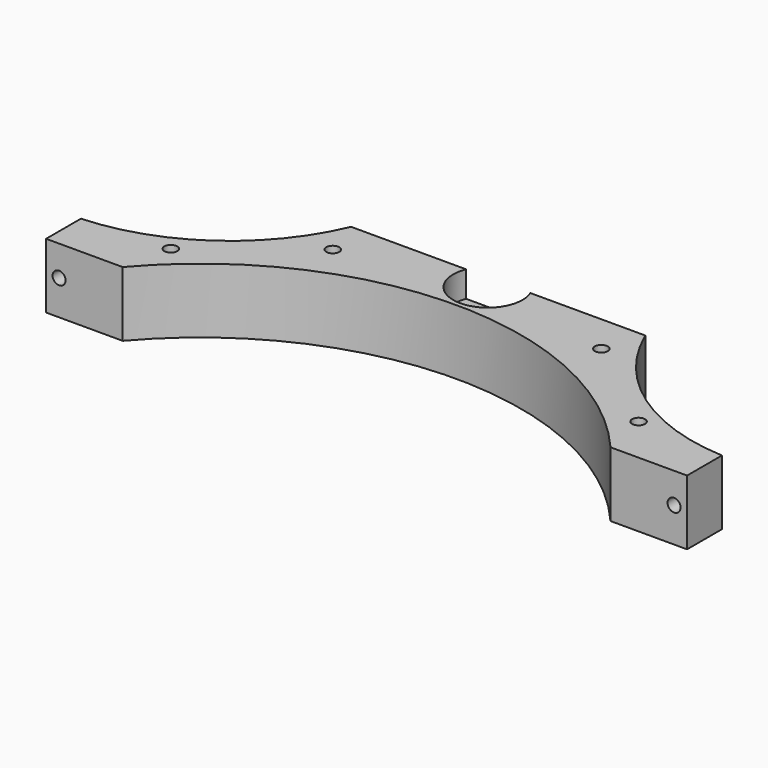
from build123d import *

# Parameters (mm, degrees)
CYLINDER2057_R               = 1.5
CYLINDER2057_DEPTH           = 50
CYLINDER2057_PLACEMENT_ANGLE = 45
CYLINDER2056_R               = 1.5
CYLINDER2056_DEPTH           = 50
CYLINDER2056_PLACEMENT_ANGLE = 45
CYLINDER2053_R               = 1.5
CYLINDER2053_DEPTH           = 50
CYLINDER2053_PLACEMENT_ANGLE = 45
CYLINDER2055_R               = 1.5
CYLINDER2055_DEPTH           = 50
CYLINDER2055_PLACEMENT_ANGLE = 45
CYLINDER2054_R               = 3
CYLINDER2054_DEPTH           = 3
CYLINDER2054_PLACEMENT_ANGLE = 45
CYLINDER2058_R               = 3
CYLINDER2058_DEPTH           = 3
CYLINDER2058_PLACEMENT_ANGLE = 45
CYLINDER2068_R               = 3
CYLINDER2068_DEPTH           = 3
CYLINDER2068_PLACEMENT_ANGLE = 45
CYLINDER2059_R               = 3
CYLINDER2059_DEPTH           = 3
CYLINDER2059_PLACEMENT_ANGLE = 45
CYLINDER2048_R               = 8
CYLINDER2048_DEPTH           = 6
CYLINDER2045_R               = 3
CYLINDER2045_DEPTH           = 50
CYLINDER2060_R               = 3
CYLINDER2060_DEPTH           = 50
CYLINDER2046_R               = 1.5
CYLINDER2046_DEPTH           = 50
CYLINDER2044_R               = 1.5
CYLINDER2044_DEPTH           = 50
CYLINDER2042_R               = 74
CYLINDER2042_DEPTH           = 15
CYLINDER2047_R               = 46
CYLINDER2047_DEPTH           = 36
CYLINDER2043_R               = 46
CYLINDER2043_DEPTH           = 36
BOX988_W                     = 148
BOX988_H                     = 38
BOX988_DEPTH                 = 15
CHAMFER078_SIZE              = 2


with BuildPart() as obj1:
    # Cylinder2057 → Cylinder2057 (new body)
    with BuildSketch(Plane.XY):
        Circle(CYLINDER2057_R)
    extrude(amount=CYLINDER2057_DEPTH)


with BuildPart() as obj1_1:
    # Cylinder2057 placement: moved
    add(obj1.part.moved(Location((-31, 77, 0))).rotate(Axis((-31, 77, 0), (0, 0, 1)), CYLINDER2057_PLACEMENT_ANGLE))


with BuildPart() as compound960:
    # Cylinder2056 → Cylinder2056 (new body)
    with BuildSketch(Plane.XY):
        Circle(CYLINDER2056_R)
    extrude(amount=CYLINDER2056_DEPTH)


with BuildPart() as compound960_1:
    # Cylinder2056 placement: moved
    add(compound960.part.moved(Location((31, 77, 0))).rotate(Axis((31, 77, 0), (0, 0, 1)), CYLINDER2056_PLACEMENT_ANGLE))

    # Compound960: union obj1
    add(obj1_1.part)


with BuildPart() as obj2:
    # Cylinder2053 → Cylinder2053 (new body)
    with BuildSketch(Plane.XY):
        Circle(CYLINDER2053_R)
    extrude(amount=CYLINDER2053_DEPTH)


with BuildPart() as obj2_1:
    # Cylinder2053 placement: moved
    add(obj2.part.moved(Location((-54, 59, 0))).rotate(Axis((-54, 59, 0), (0, 0, 1)), CYLINDER2053_PLACEMENT_ANGLE))


with BuildPart() as compound1089:
    # Cylinder2055 → Cylinder2055 (new body)
    with BuildSketch(Plane.XY):
        Circle(CYLINDER2055_R)
    extrude(amount=CYLINDER2055_DEPTH)


with BuildPart() as compound1089_1:
    # Cylinder2055 placement: moved
    add(compound1089.part.moved(Location((54, 59, 0))).rotate(Axis((54, 59, 0), (0, 0, 1)), CYLINDER2055_PLACEMENT_ANGLE))

    # Compound959: union obj2
    add(obj2_1.part)

    # Compound1089: union Compound960
    add(compound960_1.part)


with BuildPart() as obj3:
    # Cylinder2054 → Cylinder2054 (new body)
    with BuildSketch(Plane.XY):
        Circle(CYLINDER2054_R)
    extrude(amount=CYLINDER2054_DEPTH)


with BuildPart() as obj3_1:
    # Cylinder2054 placement: moved
    add(obj3.part.moved(Location((-31, 77, 0))).rotate(Axis((-31, 77, 0), (0, 0, 1)), CYLINDER2054_PLACEMENT_ANGLE))


with BuildPart() as compound1105:
    # Cylinder2058 → Cylinder2058 (new body)
    with BuildSketch(Plane.XY):
        Circle(CYLINDER2058_R)
    extrude(amount=CYLINDER2058_DEPTH)


with BuildPart() as compound1105_1:
    # Cylinder2058 placement: moved
    add(compound1105.part.moved(Location((31, 77, 0))).rotate(Axis((31, 77, 0), (0, 0, 1)), CYLINDER2058_PLACEMENT_ANGLE))

    # Compound1105: union obj3
    add(obj3_1.part)


with BuildPart() as obj4:
    # Cylinder2068 → Cylinder2068 (new body)
    with BuildSketch(Plane.XY):
        Circle(CYLINDER2068_R)
    extrude(amount=CYLINDER2068_DEPTH)


with BuildPart() as obj4_1:
    # Cylinder2068 placement: moved
    add(obj4.part.moved(Location((-54, 59, 0))).rotate(Axis((-54, 59, 0), (0, 0, 1)), CYLINDER2068_PLACEMENT_ANGLE))


with BuildPart() as compound1098:
    # Cylinder2059 → Cylinder2059 (new body)
    with BuildSketch(Plane.XY):
        Circle(CYLINDER2059_R)
    extrude(amount=CYLINDER2059_DEPTH)


with BuildPart() as compound1098_1:
    # Cylinder2059 placement: moved
    add(compound1098.part.moved(Location((54, 59, 0))).rotate(Axis((54, 59, 0), (0, 0, 1)), CYLINDER2059_PLACEMENT_ANGLE))

    # Compound965: union obj4
    add(obj4_1.part)

    # Compound1098: union Compound1105
    add(compound1105_1.part)


with BuildPart() as compound1098_2:
    # Compound1098 placement: moved
    add(compound1098_1.part.moved(Location((0, 0, 16))))


with BuildPart() as obj5:
    # Cylinder2048 → Cylinder2048 (new body)
    with BuildSketch(Plane(origin=(0, 83, 25), x_dir=(1, 0, 0), z_dir=(0, 0, 1))):
        Circle(CYLINDER2048_R)
    extrude(amount=CYLINDER2048_DEPTH)


with BuildPart() as obj6:
    # Cylinder2045 → Cylinder2045 (new body)
    with BuildSketch(Plane(origin=(-71, 106, 24), x_dir=(1, 0, 0), z_dir=(0, -1, 0))):
        Circle(CYLINDER2045_R)
    extrude(amount=CYLINDER2045_DEPTH)


with BuildPart() as compound955:
    # Cylinder2060 → Cylinder2060 (new body)
    with BuildSketch(Plane(origin=(71, 106, 24), x_dir=(1, 0, 0), z_dir=(0, -1, 0))):
        Circle(CYLINDER2060_R)
    extrude(amount=CYLINDER2060_DEPTH)

    # Compound955: union obj6
    add(obj6.part)


with BuildPart() as obj7:
    # Cylinder2046 → Cylinder2046 (new body)
    with BuildSketch(Plane(origin=(-71, 80, 24), x_dir=(1, 0, 0), z_dir=(0, -1, 0))):
        Circle(CYLINDER2046_R)
    extrude(amount=CYLINDER2046_DEPTH)


with BuildPart() as compound953:
    # Cylinder2044 → Cylinder2044 (new body)
    with BuildSketch(Plane(origin=(71, 80, 24), x_dir=(1, 0, 0), z_dir=(0, -1, 0))):
        Circle(CYLINDER2044_R)
    extrude(amount=CYLINDER2044_DEPTH)

    # Compound953: union obj7
    add(obj7.part)


with BuildPart() as obj8:
    # Cylinder2042 → Cylinder2042 (new body)
    with BuildSketch(Plane.XY.offset(16)):
        Circle(CYLINDER2042_R)
    extrude(amount=CYLINDER2042_DEPTH)


with BuildPart() as obj9:
    # Cylinder2047 → Cylinder2047 (new body)
    with BuildSketch(Plane(origin=(76.3, 104, 16), x_dir=(1, 0, 0), z_dir=(0, 0, 1))):
        Circle(CYLINDER2047_R)
    extrude(amount=CYLINDER2047_DEPTH)


with BuildPart() as obj10:
    # Cylinder2043 → Cylinder2043 (new body)
    with BuildSketch(Plane(origin=(-76.3, 104, 16), x_dir=(1, 0, 0), z_dir=(0, 0, 1))):
        Circle(CYLINDER2043_R)
    extrude(amount=CYLINDER2043_DEPTH)


with BuildPart() as cut686:
    # Box988 → Box988 (new body)
    with BuildSketch(Plane(origin=(-74, 48, 16), x_dir=(1, 0, 0), z_dir=(0, 0, 1))):
        with Locations((74, 19)):
            Rectangle(BOX988_W, BOX988_H)
    extrude(amount=BOX988_DEPTH)

    # Cut701: cut obj10
    add(obj10.part, mode=Mode.SUBTRACT)

    # Cut695: cut obj9
    add(obj9.part, mode=Mode.SUBTRACT)

    # Cut699: cut obj8
    add(obj8.part, mode=Mode.SUBTRACT)

    # Cut685: cut Compound953
    add(compound953.part, mode=Mode.SUBTRACT)

    # Cut697: cut Compound955
    add(compound955.part, mode=Mode.SUBTRACT)

    # Cut687: cut obj5
    add(obj5.part, mode=Mode.SUBTRACT)

    # Chamfer078
    chamfer078_edges = [cut686.edges().sort_by_distance(p)[0] for p in [
        (0, 86, 16),
    ]]
    chamfer(chamfer078_edges, length=CHAMFER078_SIZE)

    # Cut689: cut Compound1098
    add(compound1098_2.part, mode=Mode.SUBTRACT)

    # Cut686: cut Compound1089
    add(compound1089_1.part, mode=Mode.SUBTRACT)


solid = cut686.part
